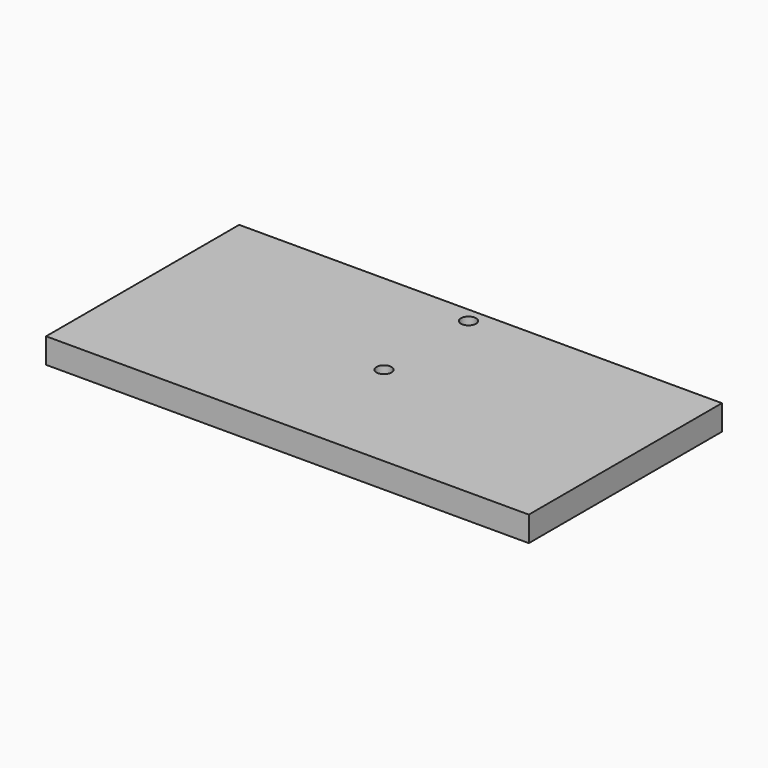
from build123d import *

# Parameters (mm, degrees)
F0_W     = 1219.2
F0_H     = 63.5
F1_DEPTH = 304.8
F2_R     = 19.05
F3_DEPTH = 63.501
F4_R     = 19.05
F5_DEPTH = 63.501


with BuildPart() as f1:
    # F0 (on Front) → F1 (new body, symmetric)
    with BuildSketch(Plane.XZ):
        Rectangle(F0_W, F0_H)
    extrude(amount=F1_DEPTH, both=True)

    # F2 (on face) → F3 (cut, through all)
    with BuildSketch(Plane.XY.offset(31.75)):
        Circle(F2_R)
    extrude(amount=-F3_DEPTH, mode=Mode.SUBTRACT)

    # F4 (on face) → F5 (cut, through all)
    with BuildSketch(Plane.XY.offset(31.75)):
        with Locations((0, 266.7)):
            Circle(F4_R)
    extrude(amount=-F5_DEPTH, mode=Mode.SUBTRACT)


solid = f1.part
